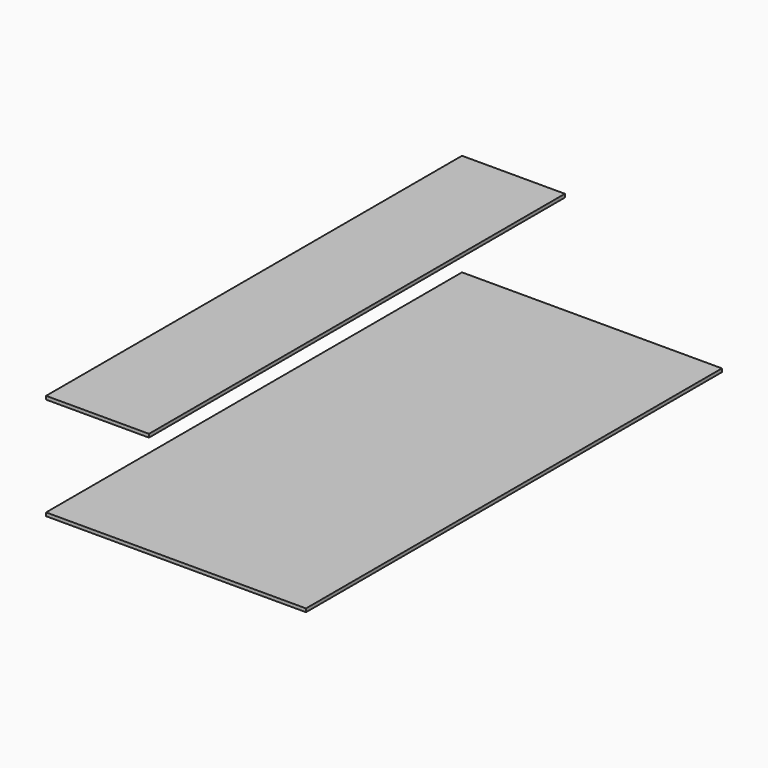
from build123d import *

# Parameters (mm, degrees)
F0_W     = 1219.2
F0_H     = 2438.4
F1_DEPTH = 15.875
F2_W     = 482.6
F2_H     = 15.875
F3_DEPTH = 2438.4


with BuildPart() as f1:
    # F0 (on Top) → F1 (new body)
    with BuildSketch(Plane.XY):
        with Locations((609.6, 1219.2)):
            Rectangle(F0_W, F0_H)
    extrude(amount=F1_DEPTH)


with BuildPart() as f3:
    # F2 (on Front) → F3 (new body)
    with BuildSketch(Plane.XZ):
        with Locations((241.3, 489.277104)):
            Rectangle(F2_W, F2_H)
    extrude(amount=-F3_DEPTH)


solid = Compound([f1.part, f3.part])
